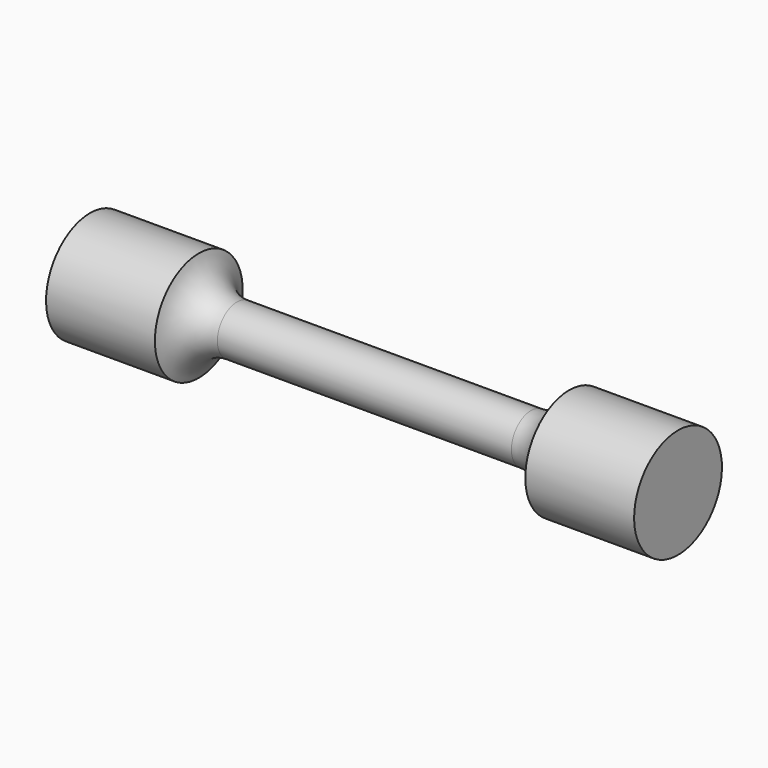
from build123d import *


with BuildPart() as f1:
    # F0 (on Front) → F1 (revolve)
    with BuildSketch(Plane.XZ):
        with BuildLine():
            Line((37.5, 6.25), (0, 6.25))
            Line((0, 6.25), (-37.5, 6.25))
            ThreePointArc((-37.5, 6.25), (-43.72495, 8.423762), (-47.243588, 14))
            Line((-47.243588, 14), (-75, 14))
            Line((-75, 14), (-75, 0))
            Line((-75, 0), (0, 0))
            Line((0, 0), (75, 0))
            Line((75, 0), (75, 14))
            Line((75, 14), (47.243588, 14))
            ThreePointArc((47.243588, 14), (43.72495, 8.423762), (37.5, 6.25))
        make_face()
    revolve(axis=Axis((-37.5, 0, 0), (1, 0, 0)))


solid = f1.part
